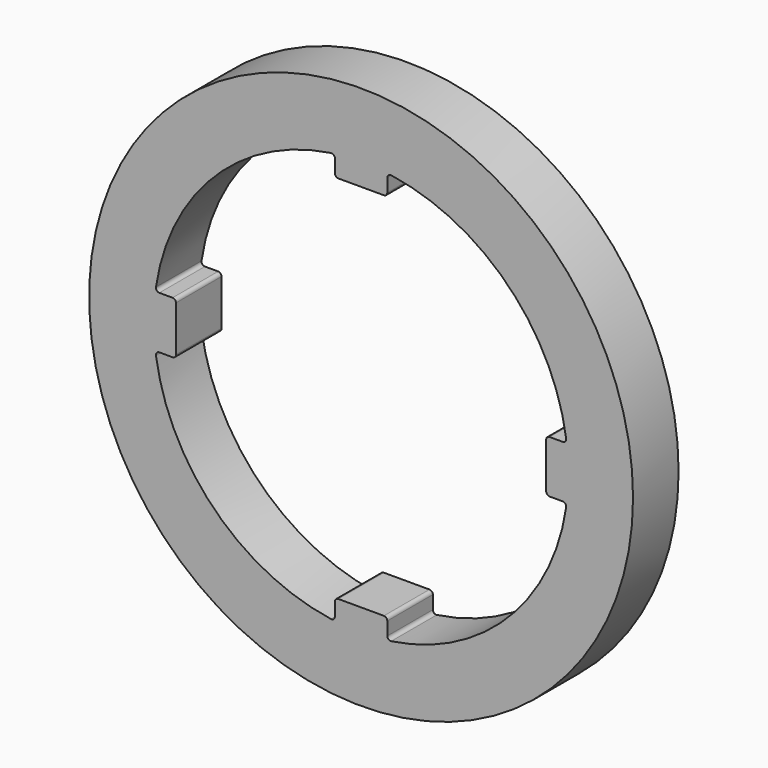
from build123d import *

# Parameters (mm, degrees)
F0_R     = 30.32125
F1_DEPTH = 6.35
F2_R     = 0.381


with BuildPart() as f1:
    # F0 (on Front) → F1 (new body)
    with BuildSketch(Plane.XZ):
        Circle(F0_R)
        with BuildLine():
            ThreePointArc((-2.921, -22.928688), (-16.344066, -16.344066), (-22.928688, -2.921))
            Line((-22.928688, -2.921), (-20.6375, -2.921))
            Line((-20.6375, -2.921), (-20.6375, 2.921))
            Line((-20.6375, 2.921), (-22.928688, 2.921))
            ThreePointArc((-22.928688, 2.921), (-16.344066, 16.344066), (-2.921, 22.928688))
            Line((-2.921, 22.928688), (-2.921, 20.6375))
            Line((-2.921, 20.6375), (2.921, 20.6375))
            Line((2.921, 20.6375), (2.921, 22.928688))
            ThreePointArc((2.921, 22.928688), (16.344066, 16.344066), (22.928688, 2.921))
            Line((22.928688, 2.921), (20.6375, 2.921))
            Line((20.6375, 2.921), (20.6375, -2.921))
            Line((20.6375, -2.921), (22.928688, -2.921))
            ThreePointArc((22.928688, -2.921), (16.344066, -16.344066), (2.921, -22.928688))
            Line((2.921, -22.928688), (2.921, -20.6375))
            Line((2.921, -20.6375), (-2.921, -20.6375))
            Line((-2.921, -20.6375), (-2.921, -22.928688))
        make_face(mode=Mode.SUBTRACT)
    extrude(amount=F1_DEPTH)

    # F2
    f2_edges = [f1.edges().sort_by_distance(p)[0] for p in [
        (-2.921, -3.175, 20.6375),
        (-2.921, -3.175, 22.928688),
        (2.921, -3.175, 20.6375),
        (-20.6375, -3.175, -2.921),
        (22.928688, -3.175, -2.921),
        (20.6375, -3.175, -2.921),
        (20.6375, -3.175, 2.921),
        (-2.921, -3.175, -20.6375),
        (2.921, -3.175, -20.6375),
        (-2.921, -3.175, -22.928688),
        (-20.6375, -3.175, 2.921),
        (22.928688, -3.175, 2.921),
        (2.921, -3.175, 22.928688),
        (-22.928688, -3.175, -2.921),
        (2.921, -3.175, -22.928688),
        (-22.928688, -3.175, 2.921),
    ]]
    fillet(f2_edges, radius=F2_R)


solid = f1.part
